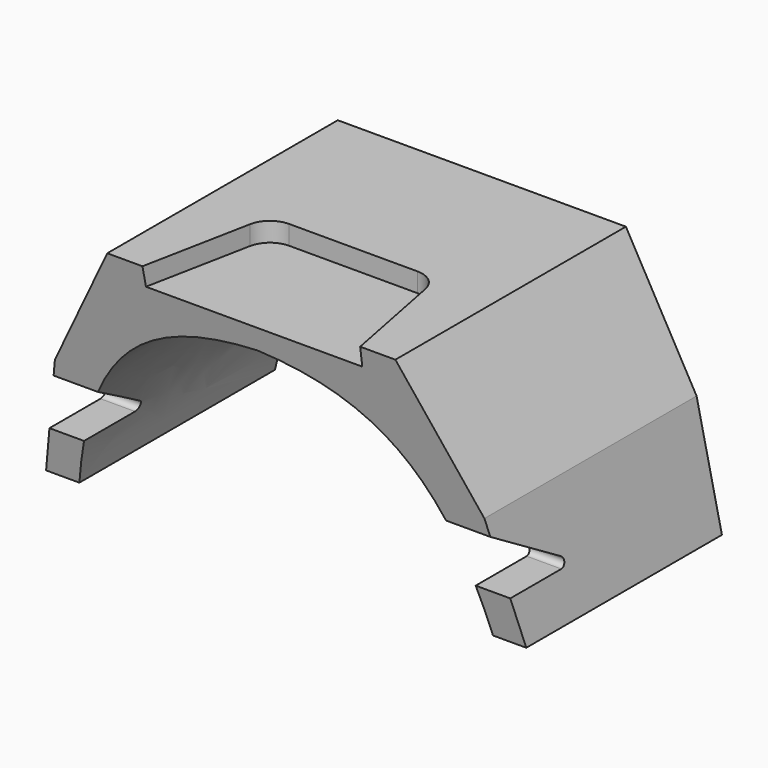
from build123d import *

# Parameters (mm, degrees)
F1_DEPTH = 76.2
F3_DEPTH = 115.062
F5_DEPTH = 5.08
F7_DEPTH = 101.6
F9_DEPTH = 101.6


with BuildPart() as f1:
    # F0 (on Front) → F1 (new body)
    with BuildSketch(Plane.XZ):
        Polygon((38.1, 33.34175663), (0, 33.34175663), (-38.1, 33.34175663), (-56.7968450487, 0), (-63.5, -30.15824337), (0, -30.15824337), (63.5, -30.15824337), (56.7968450487, 0), align=None)
    extrude(amount=F1_DEPTH)

    # F2 (on face) → F3 (cut)
    with BuildSketch(Plane.XZ.offset(76.2)):
        with BuildLine():
            add(Edge.make_bspline(
                [(0, 22.3041530699), (29.2770247906, 20.8090394735), (46.7912144959, 7.9937791452), (54.6939596534, -30.15824337)],
                knots=[0, 0, 0, 0, 75.7874149366, 75.7874149366, 75.7874149366, 75.7874149366], degree=3))
            add(Edge.make_bspline(
                [(0, 22.3041530699), (-29.2770247906, 20.8090394735), (-46.7912144959, 7.9937791452), (-54.6939596534, -30.15824337)],
                knots=[0, 0, 0, 0, 75.7874149366, 75.7874149366, 75.7874149366, 75.7874149366], degree=3))
            Line((-54.6939596534, -30.15824337), (54.6939596534, -30.15824337))
        make_face()
    extrude(amount=-F3_DEPTH, mode=Mode.SUBTRACT)

    # F4 (on face) → F5 (cut)
    with BuildSketch(Plane.XY.offset(33.34175663)):
        with BuildLine():
            Line((-23.1831711448, -47.6289144868), (-28.7870969623, -76.2))
            Line((-28.7870969623, -76.2), (28.7870969623, -76.2))
            Line((28.7870969623, -76.2), (23.1831711448, -47.6289144868))
            ThreePointArc((23.1831711448, -47.6289144868), (20.9868440702, -43.9478771705), (16.9519010018, -42.5011143088))
            Line((16.9519010018, -42.5011143088), (0, -42.5011143088))
            Line((0, -42.5011143088), (-16.9519010018, -42.5011143088))
            ThreePointArc((-16.9519010018, -42.5011143088), (-20.9868440702, -43.9478771705), (-23.1831711448, -47.6289144868))
        make_face()
    extrude(amount=-F5_DEPTH, mode=Mode.SUBTRACT)

    # F6 (on Right) → F7 (cut, symmetric)
    with BuildSketch(Plane.YZ):
        with BuildLine():
            Line((-80.7253196836, 2.3729712702), (-78.2108455896, -18.6408273876))
            Line((-78.2108455896, -18.6408273876), (-49.9080079385, -18.6408273876))
            ThreePointArc((-49.9080079385, -18.6408273876), (-48.6147643972, -17.6525414948), (-49.2287055162, -16.1451383751))
            Line((-49.2287055162, -16.1451383751), (-80.7253196836, 2.3729712702))
        make_face()
    extrude(amount=F7_DEPTH, both=True, mode=Mode.SUBTRACT)

    # F8 (on Right) → F9 (cut, symmetric)
    with BuildSketch(Plane.YZ):
        Polygon((-85.8533158898, -35.2425277233), (-63.5725855827, -36.2190529704), (-76.2457847595, 33.6000360548), align=None)
    extrude(amount=F9_DEPTH, both=True, mode=Mode.SUBTRACT)


solid = f1.part
